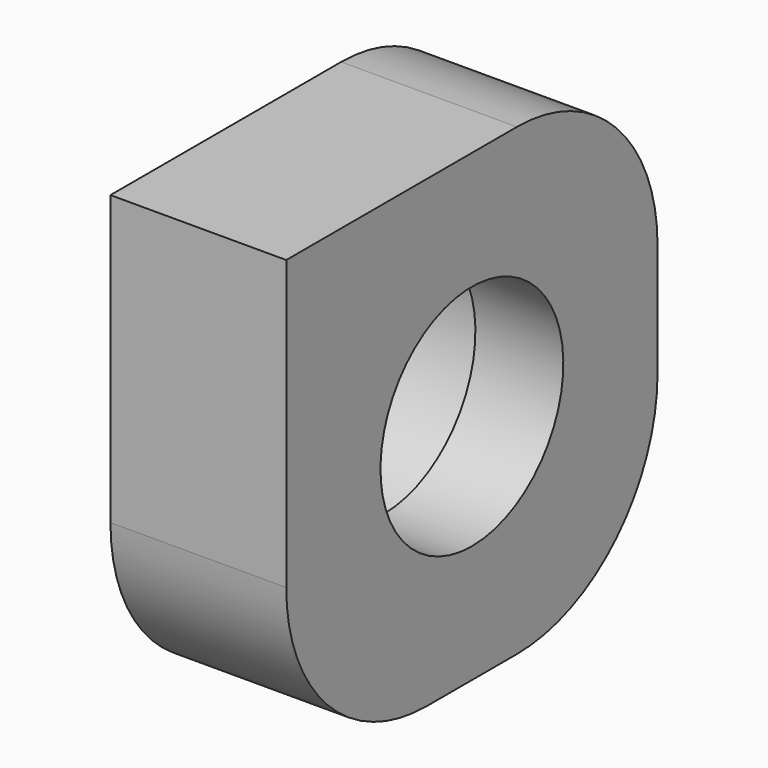
from build123d import *

# Parameters (mm, degrees)
CYLINDER005_R     = 6.5
CYLINDER005_DEPTH = 10
CYLINDER004_R     = 8.2
CYLINDER004_DEPTH = 5
BOX_W             = 10
BOX_H             = 26.4
BOX_DEPTH         = 26.4
FILLET_R          = 10


with BuildPart() as bring_holder_hole:
    # Cylinder005 → Cylinder005 (new body)
    with BuildSketch(Plane(origin=(0, 0, 0), x_dir=(0, 0, -1), z_dir=(1, 0, 0))):
        Circle(CYLINDER005_R)
    extrude(amount=CYLINDER005_DEPTH)


with BuildPart() as bring_holder_extract:
    # Cylinder004 → Cylinder004 (new body)
    with BuildSketch(Plane(origin=(0, 0, 0), x_dir=(0, 0, -1), z_dir=(1, 0, 0))):
        Circle(CYLINDER004_R)
    extrude(amount=CYLINDER004_DEPTH)

    # Fusion001: union bring holder hole
    add(bring_holder_hole.part)


with BuildPart() as bring_holder_cut_clone:
    # Box → Box (new body)
    with BuildSketch(Plane(origin=(0, -13.2, -13.2), x_dir=(1, 0, 0), z_dir=(0, 0, 1))):
        with Locations((5, 13.2)):
            Rectangle(BOX_W, BOX_H)
    extrude(amount=BOX_DEPTH)

    # Fillet
    fillet_edges = [bring_holder_cut_clone.edges().sort_by_distance(p)[0] for p in [
        (5, -13.2, -13.2),
        (5, 13.2, -13.2),
        (5, 13.2, 13.2),
    ]]
    fillet(fillet_edges, radius=FILLET_R)

    # Cut023015003: cut bring holder extract
    add(bring_holder_extract.part, mode=Mode.SUBTRACT)


with BuildPart() as bring_holder_cut_clone_1:
    # Cut023015003 placement: moved
    add(bring_holder_cut_clone.part.moved(Location((-5, 26, 7))))


with BuildPart() as bring_holder_cut_clone_2:
    # Body003 placement: moved
    add(bring_holder_cut_clone_1.part.moved(Location((0, 8, 9))))


solid = bring_holder_cut_clone_2.part
